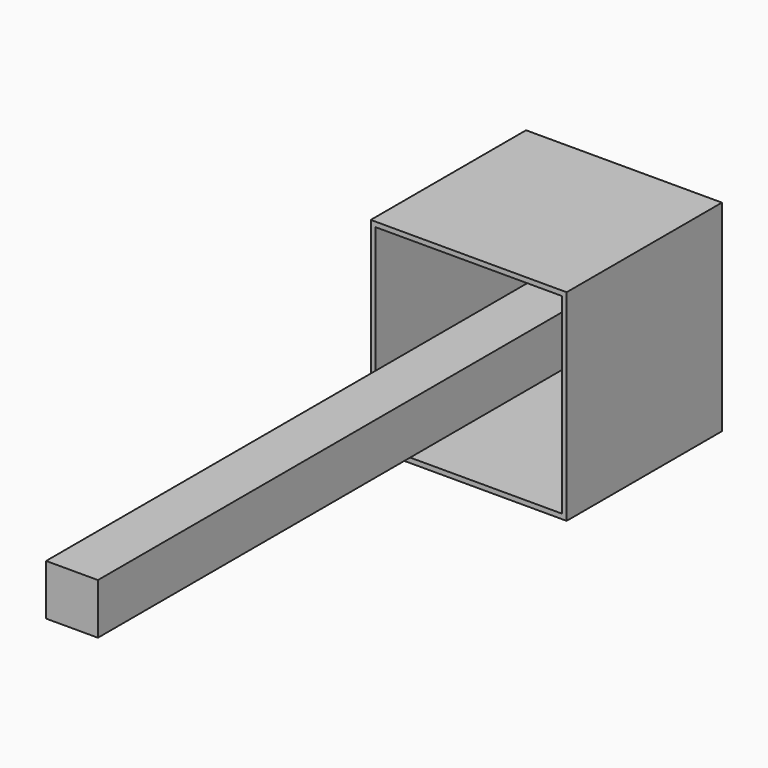
from build123d import *

# Parameters (mm, degrees)
F0_W     = 102.5334298611
F0_H     = 105.3606420755
F1_DEPTH = 50.8
F2_T     = -2.54
F3_W     = 27.1412022412
F3_H     = 26.5757590532
F4_DEPTH = 48.26
F5_DEPTH = 310.35808


with BuildPart() as f1:
    # F0 (on Front) → F1 (new body, symmetric)
    with BuildSketch(Plane.XZ):
        Rectangle(F0_W, F0_H)
    extrude(amount=F1_DEPTH, both=True)

    # F2
    f2_openings = [f1.faces().sort_by_distance(p)[0] for p in [
        (0, -50.8, 0),
    ]]
    offset(amount=F2_T, openings=f2_openings)

    # F3 (on Front) → F4 (join, through all)
    with BuildSketch(Plane.XZ):
        Rectangle(F3_W, F3_H)
    extrude(amount=-F4_DEPTH)

    # F5 (add): a face of the model
    f5_faces = [f1.faces().sort_by_distance(p)[0] for p in [
        (0, 0, 0),
    ]]
    extrude(f5_faces, amount=F5_DEPTH)


solid = f1.part
